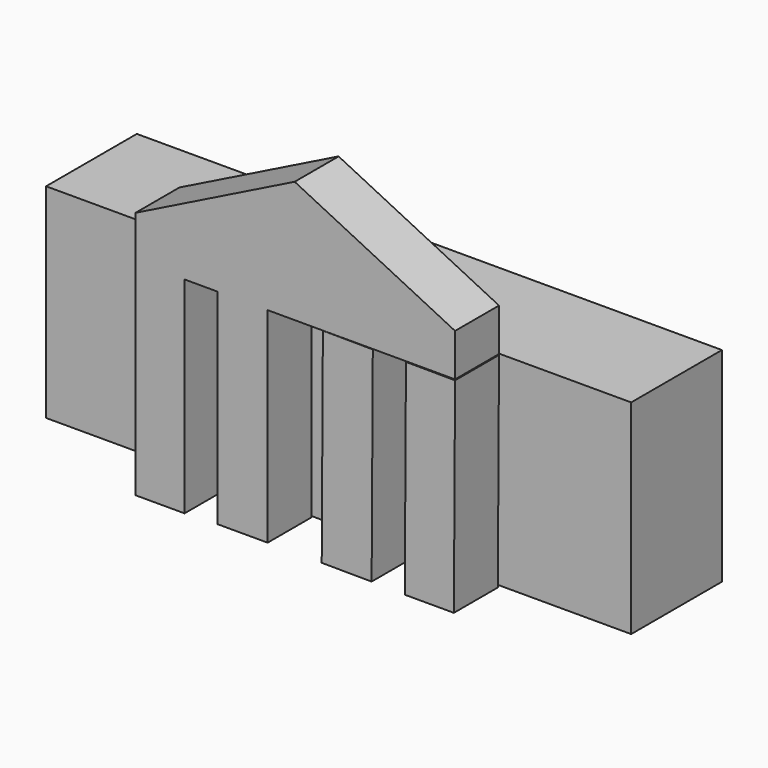
from build123d import *

# Parameters (mm, degrees)
F0_W     = 22.6951092482
F0_H     = 95.2044054866
F0_W_2   = 23.0742692947
F0_H_2   = 94.6485325694
F1_DEPTH = 25.4
F2_W     = 135.2362185717
F2_H     = 94.296477735
F3_DEPTH = 52.4381194264


with BuildPart() as f1:
    # F0 (on Front) → F1 (new body)
    with BuildSketch(Plane.XZ):
        with Locations((-62.2489973903, -27.9190726578)):
            Rectangle(F0_W, F0_H)
        with Locations((-24.0356624126, -27.6411361992)):
            Rectangle(F0_W_2, F0_H_2)
        Polygon((-73.5965520144, 39.4006446004), (-73.5965520144, 19.6831300855), (-50.9014427662, 19.6831300855), (-35.57279706, 19.6831300855), (-12.4985277653, 19.6831300855), (0.2708360553, 19.6831300855), (74.1382241249, 19.6831300855), (74.1382241249, 39.4006446004), align=None)
        Polygon((0, 75.9860053658), (-73.5965520144, 39.4006446004), (74.1382241249, 39.4006446004), align=None)
    extrude(amount=F1_DEPTH)


with BuildPart() as f1b:
    # F0 (on Front) → F1, piece 2 (new body)
    with BuildSketch(Plane.XZ):
        Polygon((36.113894749, 19.4802055093), (13.039995237, 19.6108378116), (12.5041535355, -75.0361779428), (35.5780530475, -75.1668102451), align=None)
    extrude(amount=F1_DEPTH)


with BuildPart() as f1c:
    # F0 (on Front) → F1, piece 3 (new body)
    with BuildSketch(Plane.XZ):
        Polygon((51.4422948019, 19.3934241575), (50.9049376152, -75.5212754011), (73.6004105757, -75.5212754011), (74.1370403436, 19.2649384259), align=None)
    extrude(amount=F1_DEPTH)


with BuildPart() as f3:
    # F2 (on Front) → F3 (new body)
    with BuildSketch(Plane.XZ):
        with Locations((67.6181092858, -27.3026116192)):
            Rectangle(F2_W, F2_H)
        with Locations((-67.6181092858, -27.3026116192)):
            Rectangle(F2_W, F2_H)
    extrude(amount=-F3_DEPTH)


solid = Compound([f1.part, f1b.part, f1c.part, f3.part])
